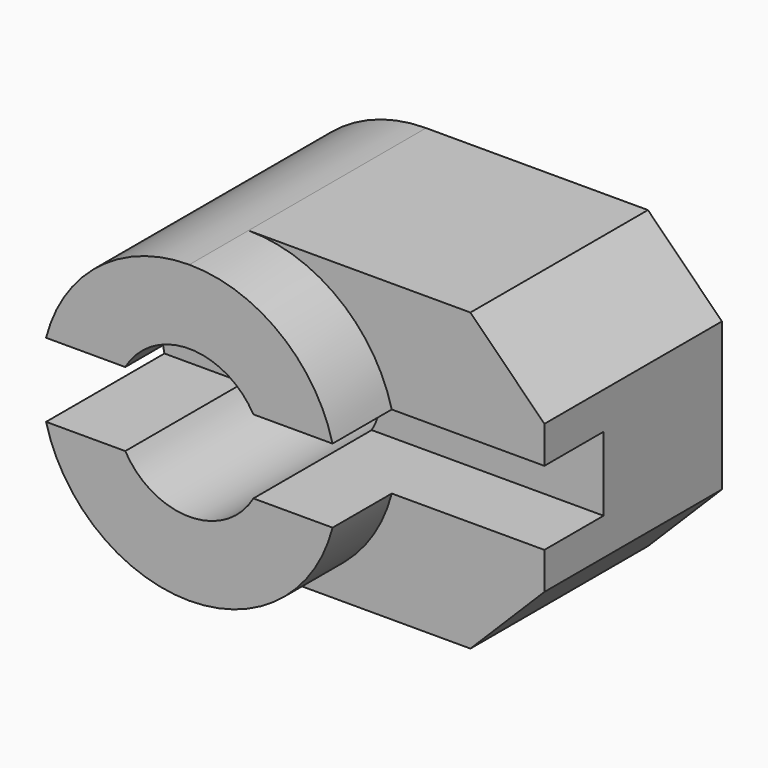
from build123d import *

# Parameters (mm, degrees)
F1_DEPTH = 5
F2_DEPTH = 15
F3_DEPTH = 5


with BuildPart() as f1:
    # F0 (on Front) → F1 (new body)
    with BuildSketch(Plane.XZ):
        with BuildLine():
            ThreePointArc((-4.3301270189, 2.5), (0, 5), (4.3301270189, 2.5))
            Line((4.3301270189, 2.5), (9.6824583655, 2.5))
            ThreePointArc((9.6824583655, 2.5), (6.123724357, 7.9056941504), (0, 10))
            ThreePointArc((0, 10), (-6.123724357, 7.9056941504), (-9.6824583655, 2.5))
            Line((-9.6824583655, 2.5), (-4.3301270189, 2.5))
        make_face()
    extrude(amount=F1_DEPTH)



with BuildPart() as f1b:
    # F0 (on Front) → F1, piece 2 (new body)
    with BuildSketch(Plane.XZ):
        with BuildLine():
            Line((9.6824583655, -2.5), (4.3301270189, -2.5))
            ThreePointArc((4.3301270189, -2.5), (0, -5), (-4.3301270189, -2.5))
            Line((-4.3301270189, -2.5), (-9.6824583655, -2.5))
            ThreePointArc((-9.6824583655, -2.5), (-6.123724357, -7.9056941504), (0, -10))
            ThreePointArc((0, -10), (6.123724357, -7.9056941504), (9.6824583655, -2.5))
        make_face()
    extrude(amount=F1_DEPTH)


with BuildPart() as f1_1:
    add(f1.part)

    add(f1b.part)  # F2 merges F1b
    # F0 (on Front) → F2 (join)
    with BuildSketch(Plane.XZ):
        with BuildLine():
            ThreePointArc((0, 10), (6.123724357, 7.9056941504), (9.6824583655, 2.5))
            Line((9.6824583655, 2.5), (20, 2.5))
            Line((20, 2.5), (20, 5))
            Line((20, 5), (15, 10))
            Line((15, 10), (0, 10))
        make_face()
        with BuildLine():
            ThreePointArc((4.3301270189, 2.5), (4.8296291314, 1.2940952255), (5, 0))
            ThreePointArc((5, 0), (4.8296291314, -1.2940952255), (4.3301270189, -2.5))
            Line((4.3301270189, -2.5), (9.6824583655, -2.5))
            Line((9.6824583655, -2.5), (20, -2.5))
            Line((20, -2.5), (20, 2.5))
            Line((20, 2.5), (9.6824583655, 2.5))
            Line((9.6824583655, 2.5), (4.3301270189, 2.5))
        make_face()
        with BuildLine():
            ThreePointArc((-4.3301270189, -2.5), (-5, 0), (-4.3301270189, 2.5))
            Line((-4.3301270189, 2.5), (-9.6824583655, 2.5))
            ThreePointArc((-9.6824583655, 2.5), (-10, 0), (-9.6824583655, -2.5))
            Line((-9.6824583655, -2.5), (-4.3301270189, -2.5))
        make_face()
        with BuildLine():
            Line((20, -2.5), (9.6824583655, -2.5))
            ThreePointArc((9.6824583655, -2.5), (6.123724357, -7.9056941504), (0, -10))
            Line((0, -10), (15, -10))
            Line((15, -10), (20, -5))
            Line((20, -5), (20, -2.5))
        make_face()
        with BuildLine():
            ThreePointArc((-4.3301270189, 2.5), (0, 5), (4.3301270189, 2.5))
            Line((4.3301270189, 2.5), (9.6824583655, 2.5))
            ThreePointArc((9.6824583655, 2.5), (6.123724357, 7.9056941504), (0, 10))
            ThreePointArc((0, 10), (-6.123724357, 7.9056941504), (-9.6824583655, 2.5))
            Line((-9.6824583655, 2.5), (-4.3301270189, 2.5))
        make_face()
        with BuildLine():
            Line((9.6824583655, -2.5), (4.3301270189, -2.5))
            ThreePointArc((4.3301270189, -2.5), (0, -5), (-4.3301270189, -2.5))
            Line((-4.3301270189, -2.5), (-9.6824583655, -2.5))
            ThreePointArc((-9.6824583655, -2.5), (-6.123724357, -7.9056941504), (0, -10))
            ThreePointArc((0, -10), (6.123724357, -7.9056941504), (9.6824583655, -2.5))
        make_face()
    extrude(amount=-F2_DEPTH)

    # F0 (on Front) → F3 (cut)
    with BuildSketch(Plane.XZ):
        with BuildLine():
            ThreePointArc((4.3301270189, 2.5), (4.8296291314, 1.2940952255), (5, 0))
            ThreePointArc((5, 0), (4.8296291314, -1.2940952255), (4.3301270189, -2.5))
            Line((4.3301270189, -2.5), (9.6824583655, -2.5))
            Line((9.6824583655, -2.5), (20, -2.5))
            Line((20, -2.5), (20, 2.5))
            Line((20, 2.5), (9.6824583655, 2.5))
            Line((9.6824583655, 2.5), (4.3301270189, 2.5))
        make_face()
        with BuildLine():
            ThreePointArc((-4.3301270189, -2.5), (-5, 0), (-4.3301270189, 2.5))
            Line((-4.3301270189, 2.5), (-9.6824583655, 2.5))
            ThreePointArc((-9.6824583655, 2.5), (-10, 0), (-9.6824583655, -2.5))
            Line((-9.6824583655, -2.5), (-4.3301270189, -2.5))
        make_face()
    extrude(amount=-F3_DEPTH, mode=Mode.SUBTRACT)


solid = f1_1.part
